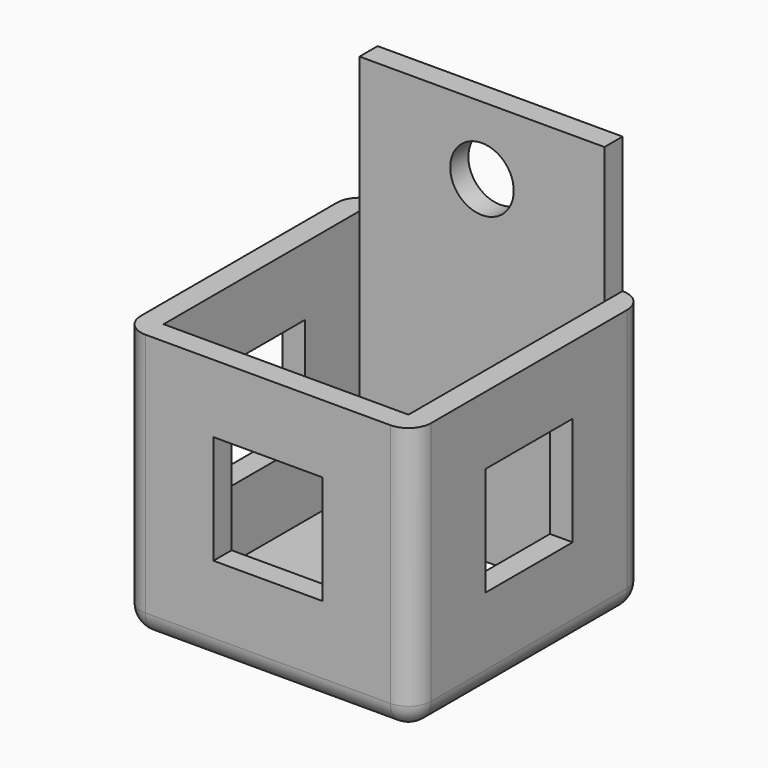
from build123d import *

# Parameters (mm, degrees)
SKETCH_W        = 10.8
SKETCH_H        = 10.8
PAD_DEPTH       = 10.8
THICKNESS_T     = 1
SKETCH001_W     = 10.8
SKETCH001_H     = 1
PAD001_DEPTH    = 6
SKETCH002_R     = 1.4
POCKET_DEPTH    = 1.001
SKETCH003_W     = 6
SKETCH003_H     = 3.3
POCKET001_DEPTH = 5
SKETCH004_W     = 4.8
SKETCH004_H     = 4.8
POCKET002_DEPTH = 1
SKETCH005_W     = 4.8
SKETCH005_H     = 4.8
POCKET003_DEPTH = 12.801


with BuildPart() as part:
    # Sketch → Pad (new body)
    with BuildSketch(Plane.XY):
        with Locations((5.4, 5.4)):
            Rectangle(SKETCH_W, SKETCH_H)
    extrude(amount=PAD_DEPTH)

    # Thickness
    thickness_openings = [part.faces().sort_by_distance(p)[0] for p in [
        (5.4, 5.4, 10.8),
    ]]
    offset(amount=THICKNESS_T, openings=thickness_openings)

    # Sketch001 → Pad001 (new body)
    with BuildSketch(Plane.XY.offset(10.8)):
        with Locations((5.4, 11.3)):
            Rectangle(SKETCH001_W, SKETCH001_H)
    extrude(amount=PAD001_DEPTH)

    # Sketch002 → Pocket (cut, through all)
    with BuildSketch(Plane.XZ.offset(-10.8)):
        with Locations((5.4, 13.8)):
            Circle(SKETCH002_R)
    extrude(amount=-POCKET_DEPTH, mode=Mode.SUBTRACT)

    # Sketch003 → Pocket001 (cut)
    with BuildSketch(Plane.XY):
        with Locations((5.4, 9.15)):
            Rectangle(SKETCH003_W, SKETCH003_H)
    extrude(amount=-POCKET001_DEPTH, mode=Mode.SUBTRACT)

    # Sketch004 → Pocket002 (cut)
    with BuildSketch(Plane.XZ.offset(1)):
        with Locations((5.4, 5.4)):
            Rectangle(SKETCH004_W, SKETCH004_H)
    extrude(amount=-POCKET002_DEPTH, mode=Mode.SUBTRACT)

    # Sketch005 → Pocket003 (cut, through all)
    with BuildSketch(Plane.YZ.offset(11.8)):
        with Locations((5.4, 5.4)):
            Rectangle(SKETCH005_W, SKETCH005_H)
    extrude(amount=-POCKET003_DEPTH, mode=Mode.SUBTRACT)


solid = part.part
